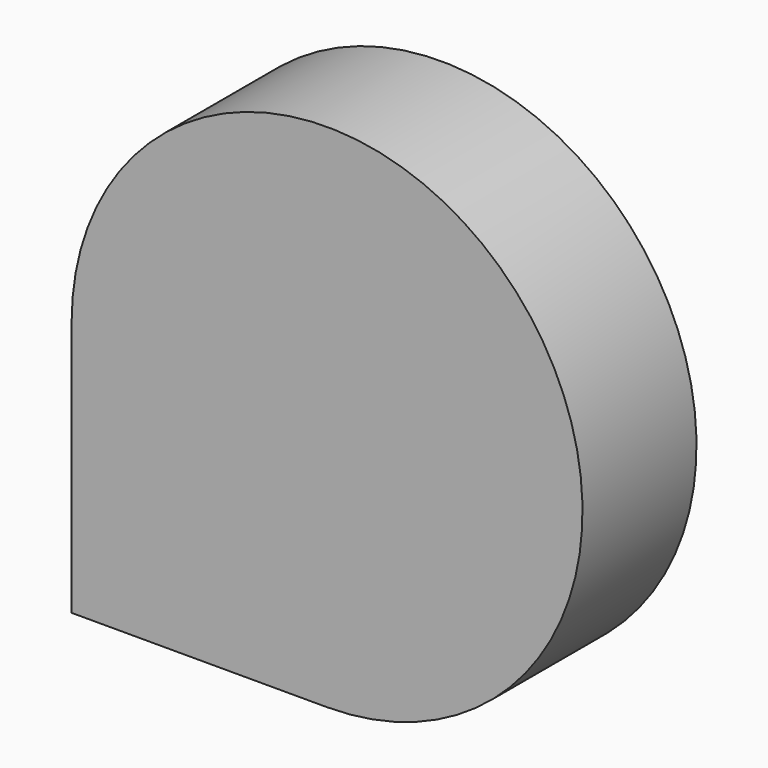
from build123d import *

# Parameters (mm, degrees)
F1_DEPTH = 25.4
F2_R     = 6.35
F3_DEPTH = 18.034


with BuildPart() as f1:
    # F0 (on Front) → F1 (new body)
    with BuildSketch(Plane.XZ):
        with BuildLine():
            Line((-45.535085, -45.535085), (0, -45.535085))
            ThreePointArc((0, -45.535085), (32.198167, 32.198167), (-45.535085, 0))
            Line((-45.535085, 0), (-45.535085, -45.535085))
        make_face()
    extrude(amount=F1_DEPTH)

    # F2 (on Front) → F3 (cut)
    with BuildSketch(Plane.XZ):
        Circle(F2_R)
    extrude(amount=F3_DEPTH, mode=Mode.SUBTRACT)


solid = f1.part
